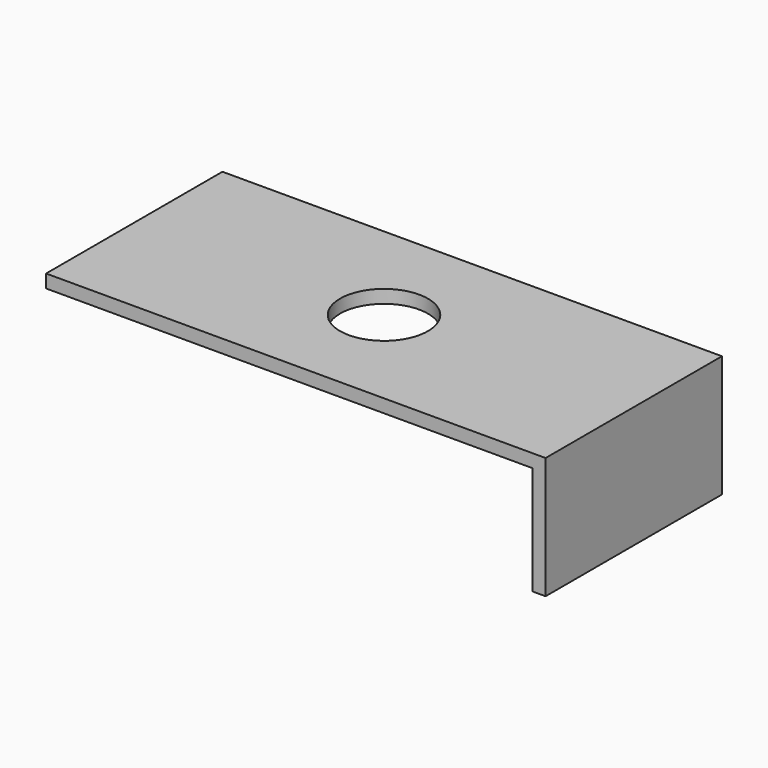
from build123d import *

# Parameters (mm, degrees)
F0_W     = 360.6640398502
F0_H     = 159.1658816382
F1_DEPTH = 9.525
F3_D     = 63.5
F4_W     = 159.013863685
F4_H     = 78.3692672849
F5_DEPTH = 9.525


with BuildPart() as f1:
    # F0 (on Top) → F1 (new body)
    with BuildSketch(Plane.XY):
        Rectangle(F0_W, F0_H)
    extrude(amount=F1_DEPTH)

    # F3 (through all)
    with Locations(Plane.XY.offset(9.525)):
        with Locations((0, 0)):
            Hole(F3_D / 2)

    # F4 (on face) → F5 (join)
    with BuildSketch(Plane.YZ.offset(180.3320199251)):
        with Locations((-0.0760089766, -39.1846336424)):
            Rectangle(F4_W, F4_H)
    extrude(amount=-F5_DEPTH)


solid = f1.part
